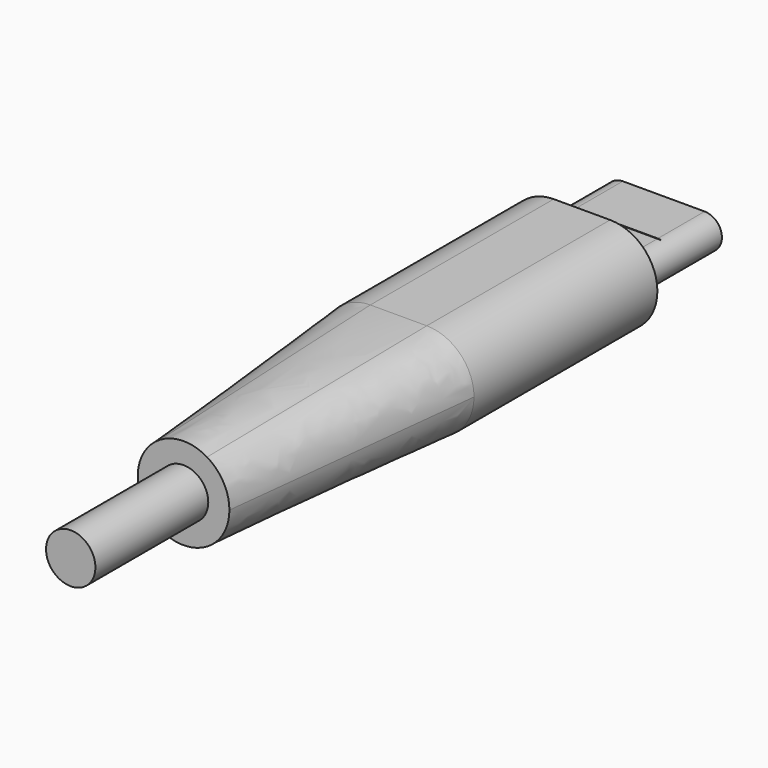
from build123d import *

# Parameters (mm, degrees)
PAD_DEPTH         = 16.25
SKETCH002_R       = 3.25
SKETCH003_R       = 1.75
PAD001_DEPTH      = 10
PAD002_DEPTH      = 7.25
SKETCH006_W       = 0.1
SKETCH006_H       = 10
POCKET_DEPTH      = 4.126
POCKET_DEPTH_BACK = -4.126


with BuildPart() as obj1:
    # Sketch → Pad (new body)
    with BuildSketch(Plane.XZ):
        with BuildLine():
            ThreePointArc((-2, 3.35), (-5.35, 0), (-2, -3.35))
            Line((-2, -3.35), (2, -3.35))
            ThreePointArc((2, -3.35), (5.35, 0), (2, 3.35))
            Line((-2, 3.35), (2, 3.35))
        make_face()
    extrude(amount=PAD_DEPTH)

    # Sketch001 (on DatumPlane) → AdditiveLoft section 0
    with BuildSketch(Plane.XZ.offset(16.25)):
        with BuildLine():
            ThreePointArc((-2, 3.35), (-5.35, 0), (-2, -3.35))
            Line((-2, -3.35), (2, -3.35))
            ThreePointArc((2, -3.35), (5.35, 0), (2, 3.35))
            Line((-2, 3.35), (2, 3.35))
        make_face()
    # Sketch002 (on DatumPlane) → AdditiveLoft section 1
    with BuildSketch(Plane.XZ.offset(35.3)):
        Circle(SKETCH002_R)
    loft()

    # Sketch003 (on DatumPlane) → Pad001 (join)
    with BuildSketch(Plane.XZ.offset(35.3)):
        Circle(SKETCH003_R)
    extrude(amount=PAD001_DEPTH)


with BuildPart() as obj2:
    # Sketch005 → Pad002 (new body)
    with BuildSketch(Plane.XZ):
        with BuildLine():
            ThreePointArc((-2.9, 1.225), (-4.125, 0), (-2.9, -1.225))
            Line((-2.9, -1.225), (2.9, -1.225))
            ThreePointArc((2.9, -1.225), (4.125, 0), (2.9, 1.225))
            Line((-2.9, 1.225), (2.9, 1.225))
        make_face()
    extrude(amount=-PAD002_DEPTH)

    # Sketch006 → Pocket (cut, two sides)
    with BuildSketch(Plane.YZ) as pocket_sk:
        with Locations((3.05, 6.2)):
            Rectangle(SKETCH006_W, SKETCH006_H)
    extrude(amount=-POCKET_DEPTH, mode=Mode.SUBTRACT)
    extrude(pocket_sk.sketch, amount=-POCKET_DEPTH_BACK, mode=Mode.SUBTRACT)


solid = Compound([obj1.part, obj2.part])
